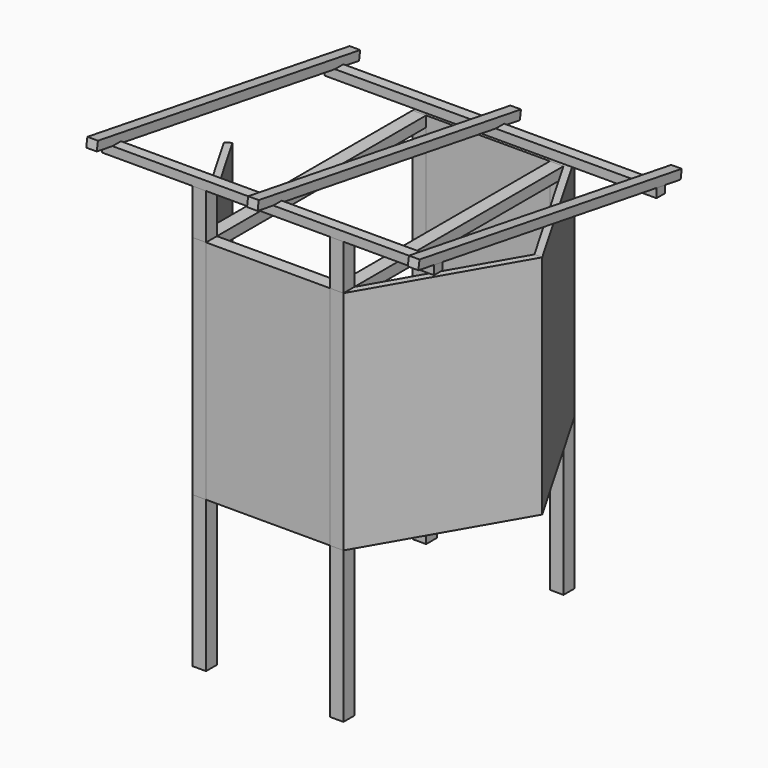
from build123d import *

# Parameters (mm, degrees)
F1_DEPTH  = 6
F2_W      = 9
F2_H      = 9
F3_DEPTH  = 150
F5_W      = 82
F5_H      = 9
F6_DEPTH  = 150
F8_DEPTH  = 100
F10_DEPTH = 150
F12_W     = 46.3100634515
F12_H     = 43.1039780378
F13_DEPTH = 6
F16_DEPTH = 150
F17_DEPTH = 150
F18_W     = 9
F18_H     = 7
F19_DEPTH = 173.2050807569
F20_W     = 220
F20_H     = 7
F21_DEPTH = 6
F22_W     = 9
F22_H     = 9
F23_DEPTH = 30
F24_W     = 220
F24_H     = 7
F25_DEPTH = 6
F27_W     = 7
F27_H     = 220
F28_DEPTH = 6


with BuildPart() as f1:
    # F0 (on Top) → F1 (new body)
    with BuildSketch(Plane.XY):
        Polygon((100, 0), (50, 86.6025403784), (-50, 86.6025403784), (-100, 0), (-50, -86.6025403784), (50, -86.6025403784), align=None)
    extrude(amount=F1_DEPTH)

    # F12 (on face) → F13 (cut, through all)
    with BuildSketch(Plane.XY.offset(6)):
        with Locations((2.0888131112, -61.2717717886)):
            Rectangle(F12_W, F12_H)
    extrude(amount=-F13_DEPTH, mode=Mode.SUBTRACT)


with BuildPart() as f3:
    # F2 (on Top) → F3 (new body)
    with BuildSketch(Plane.XY):
        with Locations((-45.5, 91.1025403784)):
            Rectangle(F2_W, F2_H)
    extrude(amount=F3_DEPTH)


with BuildPart() as f3b:
    # F2 (on Top) → F3, piece 2 (new body)
    with BuildSketch(Plane.XY):
        with Locations((45.5, 91.1025403784)):
            Rectangle(F2_W, F2_H)
    extrude(amount=F3_DEPTH)

    # F9 (on offset) → F10 (join)
    with BuildSketch(Plane.XY.offset(150)):
        Polygon((50, 95.6025403784), (50, 86.6025403784), (100, 0), (105.1961524227, 0), align=None)
    extrude(amount=-F10_DEPTH)


with BuildPart() as f3c:
    # F2 (on Top) → F3, piece 3 (new body)
    with BuildSketch(Plane.XY):
        with Locations((-45.5, -91.1025403784)):
            Rectangle(F2_W, F2_H)
    extrude(amount=F3_DEPTH)


with BuildPart() as f3d:
    # F2 (on Top) → F3, piece 4 (new body)
    with BuildSketch(Plane.XY):
        with Locations((45.5, -91.1025403784)):
            Rectangle(F2_W, F2_H)
    extrude(amount=F3_DEPTH)


with BuildPart() as f6:
    # F5 (on offset) → F6 (new body)
    with BuildSketch(Plane.XY.offset(150)):
        with Locations((0, 91.1025403784)):
            Rectangle(F5_W, F5_H)
    extrude(amount=-F6_DEPTH)


with BuildPart() as f7_1:
    # F7: instance of F6
    add(f6.part.mirror(Plane.XZ))


with BuildPart() as f8:
    # F2 (on Top) → F8 (new body)
    with BuildSketch(Plane.XY):
        with Locations((-45.5, 91.1025403784)):
            Rectangle(F2_W, F2_H)
    extrude(amount=-F8_DEPTH)


with BuildPart() as f8b:
    # F2 (on Top) → F8, piece 2 (new body)
    with BuildSketch(Plane.XY):
        with Locations((45.5, 91.1025403784)):
            Rectangle(F2_W, F2_H)
    extrude(amount=-F8_DEPTH)


with BuildPart() as f8c:
    # F2 (on Top) → F8, piece 3 (new body)
    with BuildSketch(Plane.XY):
        with Locations((-45.5, -91.1025403784)):
            Rectangle(F2_W, F2_H)
    extrude(amount=-F8_DEPTH)


with BuildPart() as f8d:
    # F2 (on Top) → F8, piece 4 (new body)
    with BuildSketch(Plane.XY):
        with Locations((45.5, -91.1025403784)):
            Rectangle(F2_W, F2_H)
    extrude(amount=-F8_DEPTH)


with BuildPart() as f16:
    # F14 (on Top) → F16 (new body)
    with BuildSketch(Plane.XY):
        Polygon((105.1961524227, 0), (100, 0), (50, -86.6025403784), (50, -95.6025403784), align=None)
    extrude(amount=F16_DEPTH)


with BuildPart() as f17:
    # F15 (on Top) → F17 (new body)
    with BuildSketch(Plane.XY):
        Polygon((-100, 0), (-103.8159340531, -2.2031305528), (-50, -95.6025403784), (-50, -86.6025403784), align=None)
    extrude(amount=F17_DEPTH)


with BuildPart() as f19:
    # F18 (on face) → F19 (new body, through all)
    with BuildSketch(Plane(origin=(0, -86.6025403784, 0), x_dir=(-1, 0, 0), z_dir=(0, 1, 0))):
        with Locations((45.5, 146.5)):
            Rectangle(F18_W, F18_H)
    extrude(amount=F19_DEPTH)


with BuildPart() as f19b:
    # F18 (on face) → F19, piece 2 (new body, through all)
    with BuildSketch(Plane(origin=(0, -86.6025403784, 0), x_dir=(-1, 0, 0), z_dir=(0, 1, 0))):
        with Locations((-45.5, 146.5)):
            Rectangle(F18_W, F18_H)
    extrude(amount=F19_DEPTH)


with BuildPart() as f21:
    # F20 (on face) → F21 (new body)
    with BuildSketch(Plane.XY.offset(150)):
        with Locations((0, 92.1025403784)):
            Rectangle(F20_W, F20_H)
    extrude(amount=F21_DEPTH)


with BuildPart() as f23:
    # F22 (on face) → F23 (new body)
    with BuildSketch(Plane.XY.offset(150)):
        with Locations((45.5, -91.1025403784)):
            Rectangle(F22_W, F22_H)
    extrude(amount=F23_DEPTH)


with BuildPart() as f23b:
    # F22 (on face) → F23, piece 2 (new body)
    with BuildSketch(Plane.XY.offset(150)):
        with Locations((-45.5, -91.1025403784)):
            Rectangle(F22_W, F22_H)
    extrude(amount=F23_DEPTH)


with BuildPart() as f25:
    # F24 (on face) → F25 (new body)
    with BuildSketch(Plane.XY.offset(180)):
        with Locations((0, -92.1025403784)):
            Rectangle(F24_W, F24_H)
    extrude(amount=F25_DEPTH)


with BuildPart() as f28:
    # F27 (on 3pt) → F28 (new body)
    with BuildSketch(Plane(origin=(0, 27.0393679816, 166.0262987553), x_dir=(1, 0, 0), z_dir=(0, 0.1607441189, 0.9869961136))):
        with Locations((-106.5, -27.3956174795)):
            Rectangle(F27_W, F27_H)
    extrude(amount=F28_DEPTH)


with BuildPart() as f28b:
    # F27 (on 3pt) → F28, piece 2 (new body)
    with BuildSketch(Plane(origin=(0, 27.0393679816, 166.0262987553), x_dir=(1, 0, 0), z_dir=(0, 0.1607441189, 0.9869961136))):
        with Locations((0, -27.3956174795)):
            Rectangle(F27_W, F27_H)
    extrude(amount=F28_DEPTH)


with BuildPart() as f28c:
    # F27 (on 3pt) → F28, piece 3 (new body)
    with BuildSketch(Plane(origin=(0, 27.0393679816, 166.0262987553), x_dir=(1, 0, 0), z_dir=(0, 0.1607441189, 0.9869961136))):
        with Locations((106.5, -27.3956174795)):
            Rectangle(F27_W, F27_H)
    extrude(amount=F28_DEPTH)


solid = Compound([f1.part, f3.part, f3b.part, f3c.part, f3d.part, f6.part, f7_1.part, f8.part, f8b.part, f8c.part, f8d.part, f16.part, f17.part, f19.part, f19b.part, f21.part, f23.part, f23b.part, f25.part, f28.part, f28b.part, f28c.part])
